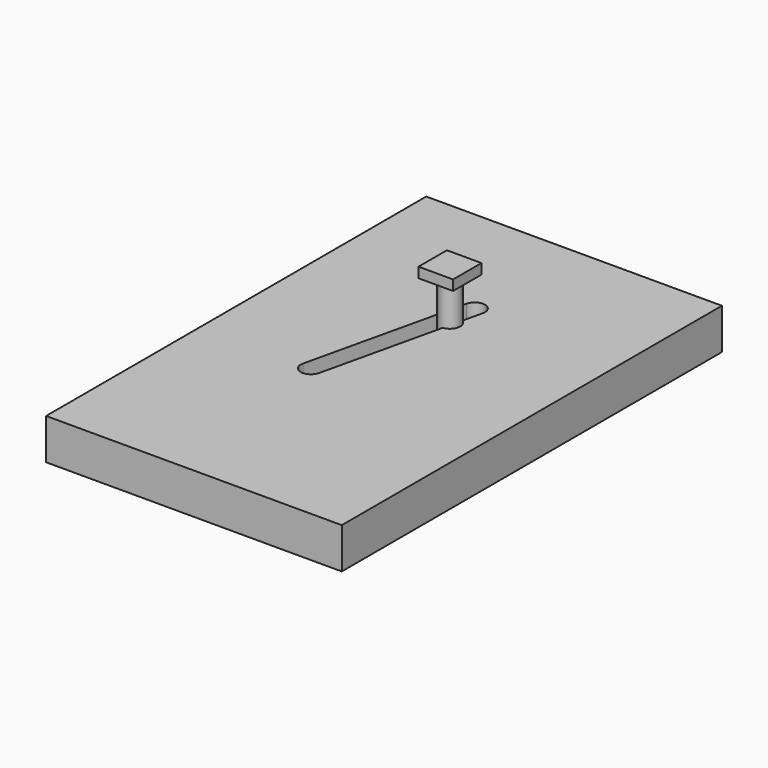
from build123d import *

# Parameters (mm, degrees)
F0_W     = 184.151083231
F0_H     = 295.9594726562
F1_DEPTH = 25.4
F2_R     = 6.35
F3_DEPTH = 50.8
F4_W     = 21.5269681066
F4_H     = 22.1156030893
F5_DEPTH = 6.35


with BuildPart() as f1:
    # F0 (on Top) → F1 (new body)
    with BuildSketch(Plane.XY):
        Rectangle(F0_W, F0_H)
        with BuildLine():
            Line((-29.0028088444, -26.9058910199), (-6.187827205, 72.0993442599))
            ThreePointArc((-6.187827205, 72.0993442599), (1.4259363525, 76.8612351124), (6.187827205, 69.247471555))
            Line((6.187827205, 69.247471555), (-16.6271544344, -29.7577637248))
            ThreePointArc((-16.6271544344, -29.7577637248), (-24.2409179918, -34.5196545773), (-29.0028088444, -26.9058910199))
        make_face(mode=Mode.SUBTRACT)
    extrude(amount=F1_DEPTH)


with BuildPart() as f3:
    # F2 (on Top) → F3 (new body)
    with BuildSketch(Plane.XY):
        with Locations((0, 51.3705201447)):
            Circle(F2_R)
    extrude(amount=F3_DEPTH)

    # F4 (on face) → F5 (join)
    with BuildSketch(Plane.XY.offset(50.8)):
        with Locations((0, 51.3705201447)):
            Rectangle(F4_W, F4_H)
    extrude(amount=F5_DEPTH)


solid = Compound([f1.part, f3.part])
